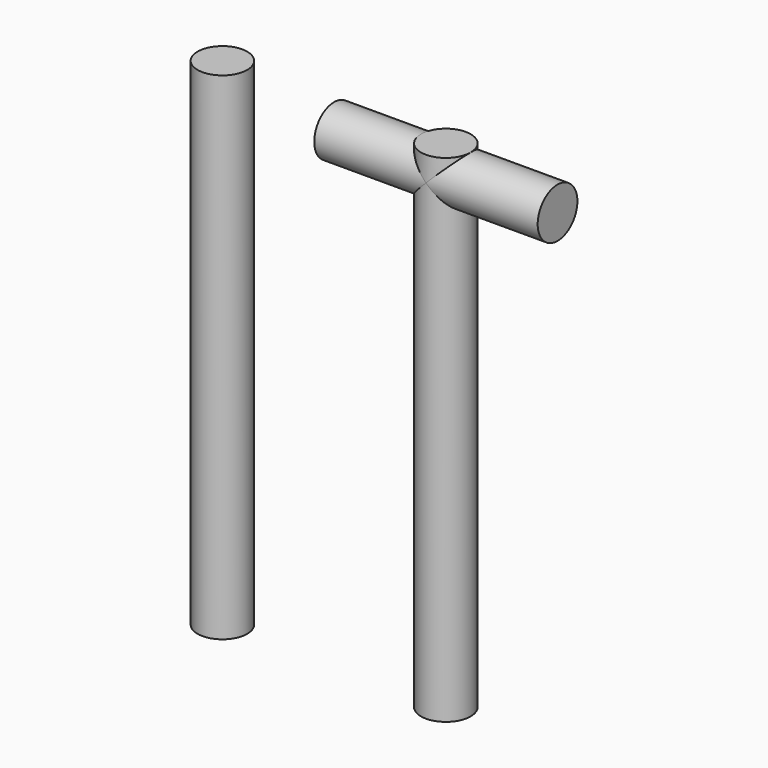
from build123d import *

# Parameters (mm, degrees)
F0_R     = 50
F1_DEPTH = 1000
F2_R     = 50
F3_DEPTH = 450


with BuildPart() as f1:
    # F0 (on Top) → F1 (new body)
    with BuildSketch(Plane.XY):
        with Locations((225, 0)):
            Circle(F0_R)
        with Locations((-225, 0)):
            Circle(F0_R)
    extrude(amount=F1_DEPTH)

    # F2 (on Right) → F3 (join)
    with BuildSketch(Plane.YZ):
        with Locations((0, 950)):
            Circle(F2_R)
    extrude(amount=F3_DEPTH)


solid = f1.part
